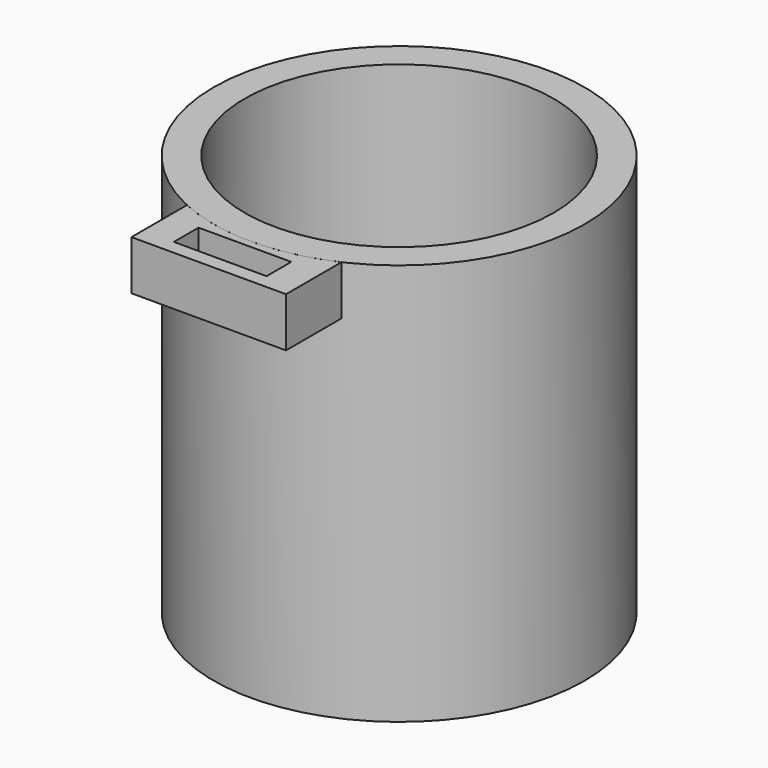
from build123d import *

# Parameters (mm, degrees)
F0_R     = 38.1
F1_DEPTH = 6.35
F2_R     = 38.1
F2_R_2   = 31.75
F3_DEPTH = 76.2
F4_W     = 19.05
F4_H     = 6.35
F5_DEPTH = 10.16


with BuildPart() as f1:
    # F0 (on Top) → F1 (new body)
    with BuildSketch(Plane.XY):
        Circle(F0_R)
    extrude(amount=F1_DEPTH)

    # F2 (on face) → F3 (join)
    with BuildSketch(Plane.XY.offset(6.35)):
        Circle(F2_R)
        Circle(F2_R_2, mode=Mode.SUBTRACT)
    extrude(amount=F3_DEPTH)


with BuildPart() as f5:
    # F4 (on face) → F5 (new body)
    with BuildSketch(Plane.XY.offset(82.55)):
        with BuildLine():
            Line((-15.875, -48.895), (15.875, -48.895))
            Line((15.875, -48.895), (15.875, -34.635161))
            ThreePointArc((15.875, -34.635161), (0, -38.1), (-15.875, -34.635161))
            Line((-15.875, -34.635161), (-15.875, -48.895))
        make_face()
        with Locations((0, -42.773783)):
            Rectangle(F4_W, F4_H, mode=Mode.SUBTRACT)
    extrude(amount=-F5_DEPTH)


solid = Compound([f1.part, f5.part])
